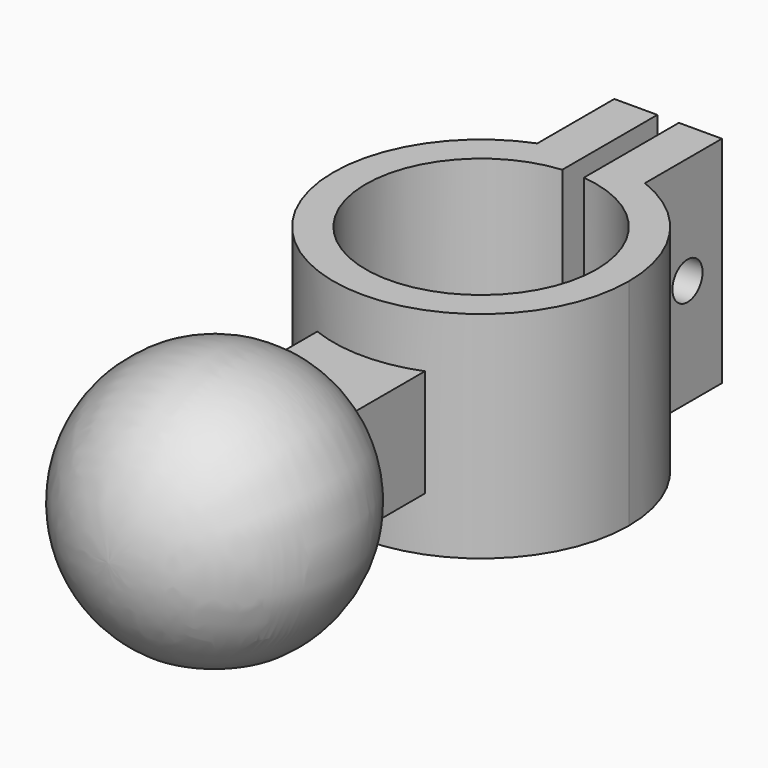
from build123d import *

# Parameters (mm, degrees)
F0_W      = 4
F0_H      = 8
F1_DEPTH  = 20
F3_DEPTH  = 25
F6_DEPTH  = 18
F7_DEPTH  = 2.275
F12_W     = 35.9631162137
F12_H     = 36.700822413
F13_DEPTH = 25


with BuildPart() as f1:
    # F0 (on Top) → F1 (new body)
    with BuildSketch(Plane.XY):
        with BuildLine():
            ThreePointArc((1, 10.6782781852), (7.9293954688, 7.2215173267), (10.725, 0))
            ThreePointArc((10.725, 0), (-7.2215173267, -7.9293954688), (-1, 10.6782781852))
            Line((-1, 10.6782781852), (-1, 13.6885216514))
            ThreePointArc((-1, 13.6885216514), (-3.034059082, 13.3854439779), (-5, 12.7818474799))
            ThreePointArc((-5, 12.7818474799), (-7.7379139631, -11.3357978325), (13.725, 0))
            ThreePointArc((13.725, 0), (11.3357978325, 7.7379139631), (5, 12.7818474799))
            ThreePointArc((5, 12.7818474799), (3.034059082, 13.3854439779), (1, 13.6885216514))
            Line((1, 13.6885216514), (1, 10.6782781852))
        make_face()
        with Locations((-3, 17.725)):
            Rectangle(F0_W, F0_H)
        with BuildLine():
            ThreePointArc((-5, 12.7818474799), (-3.034059082, 13.3854439779), (-1, 13.6885216514))
            Line((-1, 13.6885216514), (-1, 13.725))
            Line((-1, 13.725), (-5, 13.725))
            Line((-5, 13.725), (-5, 12.7818474799))
        make_face()
        with BuildLine():
            Line((1, 13.725), (1, 13.6885216514))
            ThreePointArc((1, 13.6885216514), (3.034059082, 13.3854439779), (5, 12.7818474799))
            Line((5, 12.7818474799), (5, 13.725))
            Line((5, 13.725), (1, 13.725))
        make_face()
        with Locations((3, 17.725)):
            Rectangle(F0_W, F0_H)
    extrude(amount=F1_DEPTH)

    # F2 (on face) → F3 (cut)
    with BuildSketch(Plane(origin=(-5, 0, 0), x_dir=(0, -1, 0), z_dir=(-1, 0, 0))):
        with BuildLine():
            ThreePointArc((-15.975, 10), (-17.725, 11.75), (-19.475, 10))
            ThreePointArc((-19.475, 10), (-17.725, 8.25), (-15.975, 10))
        make_face()
    extrude(amount=-F3_DEPTH, mode=Mode.SUBTRACT)

    # F5 (on offset) → F6 (join)
    with BuildSketch(Plane.XZ.offset(13)):
        Polygon((-5, 5), (0, 5), (5, 5), (5, 15), (-5, 15), align=None)
    extrude(amount=F6_DEPTH)

    # F5 (on offset) → F7 (join, through all)
    with BuildSketch(Plane.XZ.offset(13)):
        Polygon((-5, 5), (0, 5), (5, 5), (5, 15), (-5, 15), align=None)
    extrude(amount=-F7_DEPTH)

    # F10 (on offset) → F11 (revolve)
    with BuildSketch(Plane.YZ):
        with BuildLine():
            Line((-43.2656556368, 10.0734485313), (-30.9656556368, 10.0734485313))
            Line((-30.9656556368, 10.0734485313), (-18.6663643104, 10.0734485313))
            ThreePointArc((-18.6663643104, 10.0734485313), (-30.9660099736, 22.2800860158), (-43.2656556368, 10.0734485313))
        make_face()
    revolve(axis=Axis((0, -37.1156556368, 10.0734485313), (0, -1, 0)))

    # F12 (on Top) → F13 (cut)
    with BuildSketch(Plane.XY):
        with Locations((1.2909835204, -34.1188535094)):
            Rectangle(F12_W, F12_H)
    extrude(amount=-F13_DEPTH, mode=Mode.SUBTRACT)


solid = f1.part
